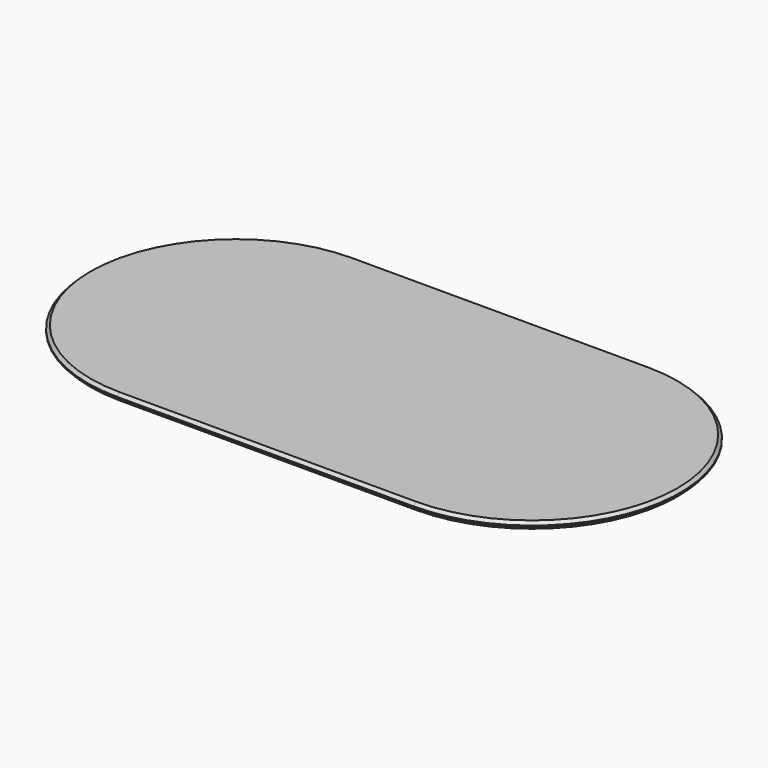
from build123d import *

# Parameters (mm, degrees)
F0_W     = 1000
F0_H     = 1000
F1_DEPTH = 25
F2_SIZE  = 10
F3_SIZE  = 10


with BuildPart() as f1:
    # F0 (on Top) → F1 (new body)
    with BuildSketch(Plane.XY):
        with BuildLine():
            Line((0, 943.124099), (0, -56.875901))
            ThreePointArc((0, -56.875901), (500, 443.124099), (0, 943.124099))
        make_face()
        with Locations((-500, 443.124099)):
            Rectangle(F0_W, F0_H)
        with BuildLine():
            ThreePointArc((-1000, 943.124099), (-1500, 443.124099), (-1000, -56.875901))
            Line((-1000, -56.875901), (-1000, 943.124099))
        make_face()
    extrude(amount=-F1_DEPTH)

    # F2
    f2_edges = [f1.edges().sort_by_distance(p)[0] for p in [
        (500, 443.124099, -25),
        (-500, 943.124099, -25),
        (-1500, 443.124099, -25),
        (-500, -56.875901, -25),
    ]]
    chamfer(f2_edges, length=F2_SIZE)

    # F3
    f3_edges = [f1.edges().sort_by_distance(p)[0] for p in [
        (-500, 943.124099, 0),
    ]]
    chamfer(f3_edges, length=F3_SIZE)


solid = f1.part
